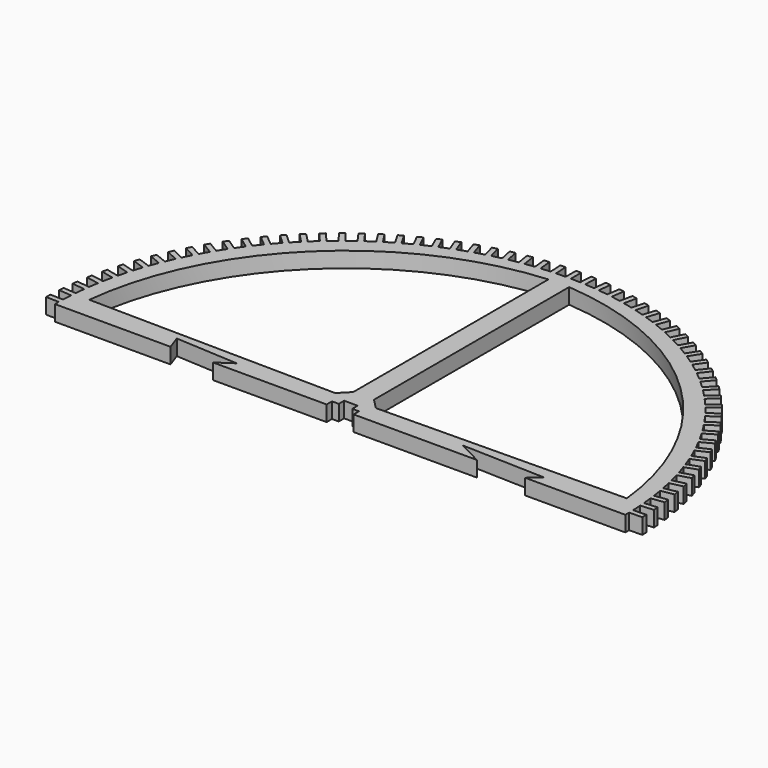
from build123d import *

# Parameters (mm, degrees)
F1_DEPTH = 3


with BuildPart() as f1:
    # F0 (on Top) → F1 (new body)
    with BuildSketch(Plane.XY):
        with BuildLine():
            Line((54.992368, 0), (54.992368, 0.916242))
            ThreePointArc((54.992368, 0.916242), (54.981766, 1.416135), (54.96662, 1.915911))
            ThreePointArc((54.96662, 1.915911), (54.927075, 2.831332), (54.872286, 3.745966))
            ThreePointArc((54.872286, 3.745966), (54.835964, 4.24465), (54.79511, 4.742984))
            ThreePointArc((54.79511, 4.742984), (54.708493, 5.655155), (54.606692, 6.565756))
            ThreePointArc((54.606692, 6.565756), (54.544747, 7.06191), (54.478294, 7.557479))
            ThreePointArc((54.478294, 7.557479), (54.344834, 8.463982), (54.196292, 9.368135))
            ThreePointArc((54.196292, 9.368135), (54.108887, 9.860442), (54.017011, 10.351933))
            ThreePointArc((54.017011, 10.351933), (53.837063, 11.250364), (53.642172, 12.145672))
            ThreePointArc((53.642172, 12.145672), (53.529541, 12.632826), (53.412485, 13.118936))
            ThreePointArc((53.412485, 13.118936), (53.186525, 14.006912), (52.945804, 14.891))
            ThreePointArc((52.945804, 14.891), (52.808243, 15.37171), (52.666318, 15.85115))
            ThreePointArc((52.666318, 15.85115), (52.394946, 16.726316), (52.109032, 17.59684))
            ThreePointArc((52.109032, 17.59684), (51.946908, 18.069831), (51.78049, 18.541329))
            ThreePointArc((51.78049, 18.541329), (51.464425, 19.401365), (51.134077, 20.256016))
            ThreePointArc((51.134077, 20.256016), (50.947818, 20.720034), (50.757349, 21.18234))
            ThreePointArc((50.757349, 21.18234), (50.39743, 22.024965), (50.023523, 22.861477))
            ThreePointArc((50.023523, 22.861477), (49.813624, 23.315291), (49.599609, 23.767179))
            ThreePointArc((49.599609, 23.767179), (49.19679, 24.590159), (48.780316, 25.406313))
            ThreePointArc((48.780316, 25.406313), (48.547334, 25.848721), (48.310339, 26.288992))
            ThreePointArc((48.310339, 26.288992), (47.865688, 27.090144), (47.407752, 27.883777))
            ThreePointArc((47.407752, 27.883777), (47.152305, 28.313604), (46.89296, 28.741091))
            ThreePointArc((46.89296, 28.741091), (46.407656, 29.518291), (45.909472, 30.287297))
            ThreePointArc((45.909472, 30.287297), (45.632236, 30.703405), (45.351228, 31.116974))
            ThreePointArc((45.351228, 31.116974), (44.826559, 31.86816), (44.289448, 32.610502))
            ThreePointArc((44.289448, 32.610502), (43.991158, 33.011785), (43.689233, 33.410341))
            ThreePointArc((43.689233, 33.410341), (43.126589, 34.133522), (42.551976, 34.847229))
            ThreePointArc((42.551976, 34.847229), (42.233425, 35.232625), (41.911383, 35.615109))
            ThreePointArc((41.911383, 35.615109), (41.312256, 36.308367), (40.701664, 36.991547))
            ThreePointArc((40.701664, 36.991547), (40.363695, 37.360034), (40.022391, 37.725432))
            ThreePointArc((40.022391, 37.725432), (39.38837, 38.386929), (38.743418, 39.037771))
            ThreePointArc((38.743418, 39.037771), (38.386929, 39.38837), (38.027266, 39.735715))
            ThreePointArc((38.027266, 39.735715), (37.360034, 40.363695), (36.682432, 40.980473))
            ThreePointArc((36.682432, 40.980473), (36.308367, 41.312256), (35.9313, 41.640625))
            ThreePointArc((35.9313, 41.640625), (35.232625, 42.233425), (34.524171, 42.814502))
            ThreePointArc((34.524171, 42.814502), (34.133522, 43.126589), (33.740051, 43.435112))
            ThreePointArc((33.740051, 43.435112), (33.011785, 43.991158), (32.274358, 44.534996))
            ThreePointArc((32.274358, 44.534996), (31.86816, 44.826559), (31.459329, 45.114417))
            ThreePointArc((31.459329, 45.114417), (30.703405, 45.632236), (29.938959, 46.13739))
            ThreePointArc((29.938959, 46.13739), (29.518291, 46.407656), (29.095183, 46.674086))
            ThreePointArc((29.095183, 46.674086), (28.313604, 47.152305), (27.524167, 47.617436))
            ThreePointArc((27.524167, 47.617436), (27.090144, 47.865688), (26.653882, 48.109984))
            ThreePointArc((26.653882, 48.109984), (25.848721, 48.547334), (25.036386, 48.97121))
            ThreePointArc((25.036386, 48.97121), (24.590159, 49.19679), (24.141899, 49.418303))
            ThreePointArc((24.141899, 49.418303), (23.315291, 49.813624), (22.482213, 50.19512))
            ThreePointArc((22.482213, 50.19512), (22.024965, 50.39743), (21.565896, 50.595574))
            ThreePointArc((21.565896, 50.595574), (20.720034, 50.947818), (19.868421, 51.285922))
            ThreePointArc((19.868421, 51.285922), (19.401365, 51.464425), (18.932705, 51.638674))
            ThreePointArc((18.932705, 51.638674), (18.069831, 51.946908), (17.201942, 52.240723))
            ThreePointArc((17.201942, 52.240723), (16.726316, 52.394946), (16.249307, 52.544838))
            ThreePointArc((16.249307, 52.544838), (15.37171, 52.808243), (14.489847, 53.056991))
            ThreePointArc((14.489847, 53.056991), (14.006912, 53.186525), (13.522819, 53.311663))
            ThreePointArc((13.522819, 53.311663), (12.632826, 53.529541), (11.739327, 53.732562))
            ThreePointArc((11.739327, 53.732562), (11.250364, 53.837063), (10.760471, 53.937114))
            ThreePointArc((10.760471, 53.937114), (9.860442, 54.108887), (8.957676, 54.265643))
            ThreePointArc((8.957676, 54.265643), (8.463982, 54.344834), (7.969588, 54.419534))
            ThreePointArc((7.969588, 54.419534), (7.06191, 54.544747), (6.152271, 54.654822))
            ThreePointArc((6.152271, 54.654822), (5.655155, 54.708493), (5.157571, 54.757643))
            ThreePointArc((5.157571, 54.757643), (4.24465, 54.835964), (3.330552, 54.899066))
            ThreePointArc((3.330552, 54.899066), (2.831332, 54.927075), (2.331877, 54.950545))
            ThreePointArc((2.331877, 54.950545), (1.416135, 54.981766), (0.5, 54.997727))
            ThreePointArc((0.5, 54.997727), (0.250003, 54.999432), (0, 55))
            ThreePointArc((0, 55), (-0.250003, 54.999432), (-0.5, 54.997727))
            ThreePointArc((-0.5, 54.997727), (-1.416135, 54.981766), (-2.331877, 54.950545))
            ThreePointArc((-2.331877, 54.950545), (-2.831332, 54.927075), (-3.330552, 54.899066))
            ThreePointArc((-3.330552, 54.899066), (-4.24465, 54.835964), (-5.157571, 54.757643))
            ThreePointArc((-5.157571, 54.757643), (-5.655155, 54.708493), (-6.152271, 54.654822))
            ThreePointArc((-6.152271, 54.654822), (-7.06191, 54.544747), (-7.969588, 54.419534))
            ThreePointArc((-7.969588, 54.419534), (-8.463982, 54.344834), (-8.957676, 54.265643))
            ThreePointArc((-8.957676, 54.265643), (-9.860442, 54.108887), (-10.760471, 53.937114))
            ThreePointArc((-10.760471, 53.937114), (-11.250364, 53.837063), (-11.739327, 53.732562))
            ThreePointArc((-11.739327, 53.732562), (-12.632826, 53.529541), (-13.522819, 53.311663))
            ThreePointArc((-13.522819, 53.311663), (-14.006912, 53.186525), (-14.489847, 53.056991))
            ThreePointArc((-14.489847, 53.056991), (-15.37171, 52.808243), (-16.249307, 52.544838))
            ThreePointArc((-16.249307, 52.544838), (-16.726316, 52.394946), (-17.201942, 52.240723))
            ThreePointArc((-17.201942, 52.240723), (-18.069831, 51.946908), (-18.932705, 51.638674))
            ThreePointArc((-18.932705, 51.638674), (-19.401365, 51.464425), (-19.868421, 51.285922))
            ThreePointArc((-19.868421, 51.285922), (-20.720034, 50.947818), (-21.565896, 50.595574))
            ThreePointArc((-21.565896, 50.595574), (-22.024965, 50.39743), (-22.482213, 50.19512))
            ThreePointArc((-22.482213, 50.19512), (-23.315291, 49.813624), (-24.141899, 49.418303))
            ThreePointArc((-24.141899, 49.418303), (-24.590159, 49.19679), (-25.036386, 48.97121))
            ThreePointArc((-25.036386, 48.97121), (-25.848721, 48.547334), (-26.653882, 48.109984))
            ThreePointArc((-26.653882, 48.109984), (-27.090144, 47.865688), (-27.524167, 47.617436))
            ThreePointArc((-27.524167, 47.617436), (-28.313604, 47.152305), (-29.095183, 46.674086))
            ThreePointArc((-29.095183, 46.674086), (-29.518291, 46.407656), (-29.938959, 46.13739))
            ThreePointArc((-29.938959, 46.13739), (-30.703405, 45.632236), (-31.459329, 45.114417))
            ThreePointArc((-31.459329, 45.114417), (-31.86816, 44.826559), (-32.274358, 44.534996))
            ThreePointArc((-32.274358, 44.534996), (-33.011785, 43.991158), (-33.740051, 43.435112))
            ThreePointArc((-33.740051, 43.435112), (-34.133522, 43.126589), (-34.524171, 42.814502))
            ThreePointArc((-34.524171, 42.814502), (-35.232625, 42.233425), (-35.9313, 41.640625))
            ThreePointArc((-35.9313, 41.640625), (-36.308367, 41.312256), (-36.682432, 40.980473))
            ThreePointArc((-36.682432, 40.980473), (-37.360034, 40.363695), (-38.027266, 39.735715))
            ThreePointArc((-38.027266, 39.735715), (-38.386929, 39.38837), (-38.743418, 39.037771))
            ThreePointArc((-38.743418, 39.037771), (-39.38837, 38.386929), (-40.022391, 37.725432))
            ThreePointArc((-40.022391, 37.725432), (-40.363695, 37.360034), (-40.701664, 36.991547))
            ThreePointArc((-40.701664, 36.991547), (-41.312256, 36.308367), (-41.911383, 35.615109))
            ThreePointArc((-41.911383, 35.615109), (-42.233425, 35.232625), (-42.551976, 34.847229))
            ThreePointArc((-42.551976, 34.847229), (-43.126589, 34.133522), (-43.689233, 33.410341))
            ThreePointArc((-43.689233, 33.410341), (-43.991158, 33.011785), (-44.289448, 32.610502))
            ThreePointArc((-44.289448, 32.610502), (-44.826559, 31.86816), (-45.351228, 31.116974))
            ThreePointArc((-45.351228, 31.116974), (-45.632236, 30.703405), (-45.909472, 30.287297))
            ThreePointArc((-45.909472, 30.287297), (-46.407656, 29.518291), (-46.89296, 28.741091))
            ThreePointArc((-46.89296, 28.741091), (-47.152305, 28.313604), (-47.407752, 27.883777))
            ThreePointArc((-47.407752, 27.883777), (-47.865688, 27.090144), (-48.310339, 26.288992))
            ThreePointArc((-48.310339, 26.288992), (-48.547334, 25.848721), (-48.780316, 25.406313))
            ThreePointArc((-48.780316, 25.406313), (-49.19679, 24.590159), (-49.599609, 23.767179))
            ThreePointArc((-49.599609, 23.767179), (-49.813624, 23.315291), (-50.023523, 22.861477))
            ThreePointArc((-50.023523, 22.861477), (-50.39743, 22.024965), (-50.757349, 21.18234))
            ThreePointArc((-50.757349, 21.18234), (-50.947818, 20.720034), (-51.134077, 20.256016))
            ThreePointArc((-51.134077, 20.256016), (-51.464425, 19.401365), (-51.78049, 18.541329))
            ThreePointArc((-51.78049, 18.541329), (-51.946908, 18.069831), (-52.109032, 17.59684))
            ThreePointArc((-52.109032, 17.59684), (-52.394946, 16.726316), (-52.666318, 15.85115))
            ThreePointArc((-52.666318, 15.85115), (-52.808243, 15.37171), (-52.945804, 14.891))
            ThreePointArc((-52.945804, 14.891), (-53.186525, 14.006912), (-53.412485, 13.118936))
            ThreePointArc((-53.412485, 13.118936), (-53.529541, 12.632826), (-53.642172, 12.145672))
            ThreePointArc((-53.642172, 12.145672), (-53.837063, 11.250364), (-54.017011, 10.351933))
            ThreePointArc((-54.017011, 10.351933), (-54.108887, 9.860442), (-54.196292, 9.368135))
            ThreePointArc((-54.196292, 9.368135), (-54.344834, 8.463982), (-54.478294, 7.557479))
            ThreePointArc((-54.478294, 7.557479), (-54.544747, 7.06191), (-54.606692, 6.565756))
            ThreePointArc((-54.606692, 6.565756), (-54.708493, 5.655155), (-54.79511, 4.742984))
            ThreePointArc((-54.79511, 4.742984), (-54.835964, 4.24465), (-54.872286, 3.745966))
            ThreePointArc((-54.872286, 3.745966), (-54.927075, 2.831332), (-54.96662, 1.915911))
            ThreePointArc((-54.96662, 1.915911), (-54.981766, 1.416135), (-54.992368, 0.916242))
            Line((-54.992368, 0.916242), (-54.992368, 0))
            Line((-54.992368, 0), (-51.959351, 0))
            Line((-51.959351, 0), (-32.704696, 0))
            Line((-32.704696, 0), (-33.671062, 2.708852))
            Line((-33.671062, 2.708852), (-21.556878, 2.011633))
            Line((-21.556878, 2.011633), (-24.52006, 0))
            Line((-24.52006, 0), (-2.6, 0))
            Line((-2.6, 0), (-2.6, 1.3))
            Line((-2.6, 1.3), (-1.3, 1.3))
            Line((-1.3, 1.3), (-1.3, 2.6))
            Line((-1.3, 2.6), (0, 2.6))
            Line((0, 2.6), (1.3, 2.6))
            Line((1.3, 2.6), (1.3, 1.3))
            Line((1.3, 1.3), (2.6, 1.3))
            Line((2.6, 1.3), (2.6, 0))
            Line((2.6, 0), (26.367193, 0))
            Line((26.367193, 0), (21.753281, 2.377975))
            Line((21.753281, 2.377975), (37.876233, 1.864971))
            Line((37.876233, 1.864971), (35.677649, 0))
            Line((35.677649, 0), (50.179556, 0))
            Line((50.179556, 0), (54.992368, 0))
        make_face()
        with BuildLine():
            Line((-2, 5.659299), (-3.923441, 3.704175))
            Line((-3.923441, 3.704175), (-51.831243, 4.329649))
            ThreePointArc((-51.831243, 4.329649), (-35.634209, 37.500109), (-2, 52.710741))
            Line((-2, 52.710741), (-2, 50.710741))
            Line((-2, 50.710741), (-2, 5.659299))
        make_face(mode=Mode.SUBTRACT)
        with BuildLine():
            Line((2, 5.659299), (2, 50.710741))
            Line((2, 50.710741), (2, 52.710741))
            ThreePointArc((2, 52.710741), (35.634209, 37.500109), (51.831243, 4.329649))
            Line((51.831243, 4.329649), (3.923441, 3.704175))
            Line((3.923441, 3.704175), (2, 5.659299))
        make_face(mode=Mode.SUBTRACT)
        with BuildLine():
            ThreePointArc((54.96662, 1.915911), (54.981766, 1.416135), (54.992368, 0.916242))
            Line((54.992368, 0.916242), (57.493811, 0.980671))
            Line((57.493811, 0.980671), (57.480937, 1.480505))
            Line((57.480937, 1.480505), (57.468063, 1.980339))
            Line((57.468063, 1.980339), (54.96662, 1.915911))
        make_face()
        with BuildLine():
            ThreePointArc((54.79511, 4.742984), (54.835964, 4.24465), (54.872286, 3.745966))
            Line((54.872286, 3.745966), (57.367096, 3.93908))
            Line((57.367096, 3.93908), (57.328508, 4.437589))
            Line((57.328508, 4.437589), (57.28992, 4.936098))
            Line((57.28992, 4.936098), (54.79511, 4.742984))
        make_face()
        with BuildLine():
            ThreePointArc((54.478294, 7.557479), (54.544747, 7.06191), (54.606692, 6.565756))
            Line((54.606692, 6.565756), (57.088253, 6.887044))
            Line((57.088253, 6.887044), (57.024054, 7.382905))
            Line((57.024054, 7.382905), (56.959855, 7.878767))
            Line((56.959855, 7.878767), (54.478294, 7.557479))
        make_face()
        with BuildLine():
            ThreePointArc((54.017011, 10.351933), (54.108887, 9.860442), (54.196292, 9.368135))
            Line((54.196292, 9.368135), (56.658023, 9.816745))
            Line((56.658023, 9.816745), (56.568382, 10.308644))
            Line((56.568382, 10.308644), (56.478742, 10.800543))
            Line((56.478742, 10.800543), (54.017011, 10.351933))
        make_face()
        with BuildLine():
            ThreePointArc((53.412485, 13.118936), (53.529541, 12.632826), (53.642172, 12.145672))
            Line((53.642172, 12.145672), (56.077545, 12.720413))
            Line((56.077545, 12.720413), (55.962701, 13.207045))
            Line((55.962701, 13.207045), (55.847858, 13.693677))
            Line((55.847858, 13.693677), (53.412485, 13.118936))
        make_face()
        with BuildLine():
            ThreePointArc((52.666318, 15.85115), (52.808243, 15.37171), (52.945804, 14.891))
            Line((52.945804, 14.891), (55.348361, 15.590349))
            Line((55.348361, 15.590349), (55.208618, 16.070424))
            Line((55.208618, 16.070424), (55.068875, 16.550499))
            Line((55.068875, 16.550499), (52.666318, 15.85115))
        make_face()
        with BuildLine():
            ThreePointArc((51.78049, 18.541329), (51.946908, 18.069831), (52.109032, 17.59684))
            Line((52.109032, 17.59684), (54.472402, 18.418942))
            Line((54.472402, 18.418942), (54.308131, 18.891187))
            Line((54.308131, 18.891187), (54.143859, 19.363432))
            Line((54.143859, 19.363432), (51.78049, 18.541329))
        make_face()
        with BuildLine():
            ThreePointArc((50.757349, 21.18234), (50.947818, 20.720034), (51.134077, 20.256016))
            Line((51.134077, 20.256016), (53.451992, 21.198692))
            Line((53.451992, 21.198692), (53.263628, 21.661854))
            Line((53.263628, 21.661854), (53.075264, 22.125016))
            Line((53.075264, 22.125016), (50.757349, 21.18234))
        make_face()
        with BuildLine():
            ThreePointArc((49.599609, 23.767179), (49.813624, 23.315291), (50.023523, 22.861477))
            Line((50.023523, 22.861477), (52.289837, 23.922226))
            Line((52.289837, 23.922226), (52.07788, 24.375077))
            Line((52.07788, 24.375077), (51.865923, 24.827929))
            Line((51.865923, 24.827929), (49.599609, 23.767179))
        make_face()
        with BuildLine():
            ThreePointArc((48.310339, 26.288992), (48.547334, 25.848721), (48.780316, 25.406313))
            Line((48.780316, 25.406313), (50.989019, 26.582323))
            Line((50.989019, 26.582323), (50.754031, 27.023663))
            Line((50.754031, 27.023663), (50.519043, 27.465002))
            Line((50.519043, 27.465002), (48.310339, 26.288992))
        make_face()
        with BuildLine():
            ThreePointArc((46.89296, 28.741091), (47.152305, 28.313604), (47.407752, 27.883777))
            Line((47.407752, 27.883777), (49.552988, 29.171929))
            Line((49.552988, 29.171929), (49.295591, 29.600586))
            Line((49.295591, 29.600586), (49.038195, 30.029243))
            Line((49.038195, 30.029243), (46.89296, 28.741091))
        make_face()
        with BuildLine():
            ThreePointArc((45.351228, 31.116974), (45.632236, 30.703405), (45.909472, 30.287297))
            Line((45.909472, 30.287297), (47.98555, 31.684176))
            Line((47.98555, 31.684176), (47.706428, 32.099014))
            Line((47.706428, 32.099014), (47.427306, 32.513853))
            Line((47.427306, 32.513853), (45.351228, 31.116974))
        make_face()
        with BuildLine():
            Line((-57.493811, 0.980671), (-54.992368, 0.916242))
            ThreePointArc((-54.992368, 0.916242), (-54.981766, 1.416135), (-54.96662, 1.915911))
            Line((-54.96662, 1.915911), (-57.468063, 1.980339))
            Line((-57.468063, 1.980339), (-57.480937, 1.480505))
            Line((-57.480937, 1.480505), (-57.493811, 0.980671))
        make_face()
        with BuildLine():
            ThreePointArc((43.689233, 33.410341), (43.991158, 33.011785), (44.289448, 32.610502))
            Line((44.289448, 32.610502), (46.290864, 34.112402))
            Line((46.290864, 34.112402), (45.990757, 34.512321))
            Line((45.990757, 34.512321), (45.690649, 34.912241))
            Line((45.690649, 34.912241), (43.689233, 33.410341))
        make_face()
        with BuildLine():
            Line((-57.367096, 3.93908), (-54.872286, 3.745966))
            ThreePointArc((-54.872286, 3.745966), (-54.835964, 4.24465), (-54.79511, 4.742984))
            Line((-54.79511, 4.742984), (-57.28992, 4.936098))
            Line((-57.28992, 4.936098), (-57.328508, 4.437589))
            Line((-57.328508, 4.437589), (-57.367096, 3.93908))
        make_face()
        with BuildLine():
            ThreePointArc((41.911383, 35.615109), (42.233425, 35.232625), (42.551976, 34.847229))
            Line((42.551976, 34.847229), (44.473422, 36.450168))
            Line((44.473422, 36.450168), (44.153126, 36.834108))
            Line((44.153126, 36.834108), (43.832829, 37.218048))
            Line((43.832829, 37.218048), (41.911383, 35.615109))
        make_face()
        with BuildLine():
            Line((-57.088253, 6.887044), (-54.606692, 6.565756))
            ThreePointArc((-54.606692, 6.565756), (-54.544747, 7.06191), (-54.478294, 7.557479))
            Line((-54.478294, 7.557479), (-56.959855, 7.878767))
            Line((-56.959855, 7.878767), (-57.024054, 7.382905))
            Line((-57.024054, 7.382905), (-57.088253, 6.887044))
        make_face()
        with BuildLine():
            ThreePointArc((40.022391, 37.725432), (40.363695, 37.360034), (40.701664, 36.991547))
            Line((40.701664, 36.991547), (42.538045, 38.691274))
            Line((42.538045, 38.691274), (42.198409, 39.058217))
            Line((42.198409, 39.058217), (41.858772, 39.42516))
            Line((41.858772, 39.42516), (40.022391, 37.725432))
        make_face()
        with BuildLine():
            Line((-56.658023, 9.816745), (-54.196292, 9.368135))
            ThreePointArc((-54.196292, 9.368135), (-54.108887, 9.860442), (-54.017011, 10.351933))
            Line((-54.017011, 10.351933), (-56.478742, 10.800543))
            Line((-56.478742, 10.800543), (-56.568382, 10.308644))
            Line((-56.568382, 10.308644), (-56.658023, 9.816745))
        make_face()
        with BuildLine():
            ThreePointArc((38.027266, 39.735715), (38.386929, 39.38837), (38.743418, 39.037771))
            Line((38.743418, 39.037771), (40.489865, 40.829779))
            Line((40.489865, 40.829779), (40.131789, 41.178751))
            Line((40.131789, 41.178751), (39.773713, 41.527723))
            Line((39.773713, 41.527723), (38.027266, 39.735715))
        make_face()
        with BuildLine():
            Line((-56.077545, 12.720413), (-53.642172, 12.145672))
            ThreePointArc((-53.642172, 12.145672), (-53.529541, 12.632826), (-53.412485, 13.118936))
            Line((-53.412485, 13.118936), (-55.847858, 13.693677))
            Line((-55.847858, 13.693677), (-55.962701, 13.207045))
            Line((-55.962701, 13.207045), (-56.077545, 12.720413))
        make_face()
        with BuildLine():
            ThreePointArc((35.9313, 41.640625), (36.308367, 41.312256), (36.682432, 40.980473))
            Line((36.682432, 40.980473), (38.334313, 42.86001))
            Line((38.334313, 42.86001), (37.958747, 43.190086))
            Line((37.958747, 43.190086), (37.583181, 43.520162))
            Line((37.583181, 43.520162), (35.9313, 41.640625))
        make_face()
        with BuildLine():
            Line((-55.348361, 15.590349), (-52.945804, 14.891))
            ThreePointArc((-52.945804, 14.891), (-52.808243, 15.37171), (-52.666318, 15.85115))
            Line((-52.666318, 15.85115), (-55.068875, 16.550499))
            Line((-55.068875, 16.550499), (-55.208618, 16.070424))
            Line((-55.208618, 16.070424), (-55.348361, 15.590349))
        make_face()
        with BuildLine():
            ThreePointArc((33.740051, 43.435112), (34.133522, 43.126589), (34.524171, 42.814502))
            Line((34.524171, 42.814502), (36.077105, 44.776584))
            Line((36.077105, 44.776584), (35.685045, 45.086889))
            Line((35.685045, 45.086889), (35.292985, 45.397194))
            Line((35.292985, 45.397194), (33.740051, 43.435112))
        make_face()
        with BuildLine():
            Line((-54.472402, 18.418942), (-52.109032, 17.59684))
            ThreePointArc((-52.109032, 17.59684), (-51.946908, 18.069831), (-51.78049, 18.541329))
            Line((-51.78049, 18.541329), (-54.143859, 19.363432))
            Line((-54.143859, 19.363432), (-54.308131, 18.891187))
            Line((-54.308131, 18.891187), (-54.472402, 18.418942))
        make_face()
        with BuildLine():
            ThreePointArc((31.459329, 45.114417), (31.86816, 44.826559), (32.274358, 44.534996))
            Line((32.274358, 44.534996), (33.724227, 46.574419))
            Line((33.724227, 46.574419), (33.316713, 46.864129))
            Line((33.316713, 46.864129), (32.909199, 47.15384))
            Line((32.909199, 47.15384), (31.459329, 45.114417))
        make_face()
        with BuildLine():
            Line((-53.451992, 21.198692), (-51.134077, 20.256016))
            ThreePointArc((-51.134077, 20.256016), (-50.947818, 20.720034), (-50.757349, 21.18234))
            Line((-50.757349, 21.18234), (-53.075264, 22.125016))
            Line((-53.075264, 22.125016), (-53.263628, 21.661854))
            Line((-53.263628, 21.661854), (-53.451992, 21.198692))
        make_face()
        with BuildLine():
            ThreePointArc((29.095183, 46.674086), (29.518291, 46.407656), (29.938959, 46.13739))
            Line((29.938959, 46.13739), (31.281919, 48.248747))
            Line((31.281919, 48.248747), (30.860031, 48.517095))
            Line((30.860031, 48.517095), (30.438143, 48.785443))
            Line((30.438143, 48.785443), (29.095183, 46.674086))
        make_face()
        with BuildLine():
            Line((-52.289837, 23.922226), (-50.023523, 22.861477))
            ThreePointArc((-50.023523, 22.861477), (-49.813624, 23.315291), (-49.599609, 23.767179))
            Line((-49.599609, 23.767179), (-51.865923, 24.827929))
            Line((-51.865923, 24.827929), (-52.07788, 24.375077))
            Line((-52.07788, 24.375077), (-52.289837, 23.922226))
        make_face()
        with BuildLine():
            ThreePointArc((26.653882, 48.109984), (27.090144, 47.865688), (27.524167, 47.617436))
            Line((27.524167, 47.617436), (28.756657, 49.795127))
            Line((28.756657, 49.795127), (28.321514, 50.041401))
            Line((28.321514, 50.041401), (27.886371, 50.287675))
            Line((27.886371, 50.287675), (26.653882, 48.109984))
        make_face()
        with BuildLine():
            Line((-50.989019, 26.582323), (-48.780316, 25.406313))
            ThreePointArc((-48.780316, 25.406313), (-48.547334, 25.848721), (-48.310339, 26.288992))
            Line((-48.310339, 26.288992), (-50.519043, 27.465002))
            Line((-50.519043, 27.465002), (-50.754031, 27.023663))
            Line((-50.754031, 27.023663), (-50.989019, 26.582323))
        make_face()
        with BuildLine():
            ThreePointArc((24.141899, 49.418303), (24.590159, 49.19679), (25.036386, 48.97121))
            Line((25.036386, 48.97121), (26.155137, 51.20946))
            Line((26.155137, 51.20946), (25.707893, 51.433007))
            Line((25.707893, 51.433007), (25.26065, 51.656554))
            Line((25.26065, 51.656554), (24.141899, 49.418303))
        make_face()
        with BuildLine():
            Line((-49.552988, 29.171929), (-47.407752, 27.883777))
            ThreePointArc((-47.407752, 27.883777), (-47.152305, 28.313604), (-46.89296, 28.741091))
            Line((-46.89296, 28.741091), (-49.038195, 30.029243))
            Line((-49.038195, 30.029243), (-49.295591, 29.600586))
            Line((-49.295591, 29.600586), (-49.552988, 29.171929))
        make_face()
        with BuildLine():
            ThreePointArc((21.565896, 50.595574), (22.024965, 50.39743), (22.482213, 50.19512))
            Line((22.482213, 50.19512), (23.484258, 52.487995))
            Line((23.484258, 52.487995), (23.0261, 52.688222))
            Line((23.0261, 52.688222), (22.567941, 52.888449))
            Line((22.567941, 52.888449), (21.565896, 50.595574))
        make_face()
        with BuildLine():
            Line((-47.98555, 31.684176), (-45.909472, 30.287297))
            ThreePointArc((-45.909472, 30.287297), (-45.632236, 30.703405), (-45.351228, 31.116974))
            Line((-45.351228, 31.116974), (-47.427306, 32.513853))
            Line((-47.427306, 32.513853), (-47.706428, 32.099014))
            Line((-47.706428, 32.099014), (-47.98555, 31.684176))
        make_face()
        with BuildLine():
            ThreePointArc((18.932705, 51.638674), (19.401365, 51.464425), (19.868421, 51.285922))
            Line((19.868421, 51.285922), (20.751103, 53.627341))
            Line((20.751103, 53.627341), (20.283245, 53.803717))
            Line((20.283245, 53.803717), (19.815387, 53.980093))
            Line((19.815387, 53.980093), (18.932705, 51.638674))
        make_face()
        with BuildLine():
            Line((-46.290864, 34.112402), (-44.289448, 32.610502))
            ThreePointArc((-44.289448, 32.610502), (-43.991158, 33.011785), (-43.689233, 33.410341))
            Line((-43.689233, 33.410341), (-45.690649, 34.912241))
            Line((-45.690649, 34.912241), (-45.990757, 34.512321))
            Line((-45.990757, 34.512321), (-46.290864, 34.112402))
        make_face()
        with BuildLine():
            ThreePointArc((16.249307, 52.544838), (16.726316, 52.394946), (17.201942, 52.240723))
            Line((17.201942, 52.240723), (17.962921, 54.624477))
            Line((17.962921, 54.624477), (17.486603, 54.776534))
            Line((17.486603, 54.776534), (17.010285, 54.928592))
            Line((17.010285, 54.928592), (16.249307, 52.544838))
        make_face()
        with BuildLine():
            Line((-44.473422, 36.450168), (-42.551976, 34.847229))
            ThreePointArc((-42.551976, 34.847229), (-42.233425, 35.232625), (-41.911383, 35.615109))
            Line((-41.911383, 35.615109), (-43.832829, 37.218048))
            Line((-43.832829, 37.218048), (-44.153126, 36.834108))
            Line((-44.153126, 36.834108), (-44.473422, 36.450168))
        make_face()
        with BuildLine():
            ThreePointArc((13.522819, 53.311663), (14.006912, 53.186525), (14.489847, 53.056991))
            Line((14.489847, 53.056991), (15.127103, 55.476759))
            Line((15.127103, 55.476759), (14.643589, 55.604094))
            Line((14.643589, 55.604094), (14.160076, 55.73143))
            Line((14.160076, 55.73143), (13.522819, 53.311663))
        make_face()
        with BuildLine():
            Line((-42.538045, 38.691274), (-40.701664, 36.991547))
            ThreePointArc((-40.701664, 36.991547), (-40.363695, 37.360034), (-40.022391, 37.725432))
            Line((-40.022391, 37.725432), (-41.858772, 39.42516))
            Line((-41.858772, 39.42516), (-42.198409, 39.058217))
            Line((-42.198409, 39.058217), (-42.538045, 38.691274))
        make_face()
        with BuildLine():
            ThreePointArc((10.760471, 53.937114), (11.250364, 53.837063), (11.739327, 53.732562))
            Line((11.739327, 53.732562), (12.251172, 56.181926))
            Line((12.251172, 56.181926), (11.761744, 56.284202))
            Line((11.761744, 56.284202), (11.272316, 56.386478))
            Line((11.272316, 56.386478), (10.760471, 53.937114))
        make_face()
        with BuildLine():
            Line((-40.489865, 40.829779), (-38.743418, 39.037771))
            ThreePointArc((-38.743418, 39.037771), (-38.386929, 39.38837), (-38.027266, 39.735715))
            Line((-38.027266, 39.735715), (-39.773713, 41.527723))
            Line((-39.773713, 41.527723), (-40.131789, 41.178751))
            Line((-40.131789, 41.178751), (-40.489865, 40.829779))
        make_face()
        with BuildLine():
            ThreePointArc((7.969588, 54.419534), (8.463982, 54.344834), (8.957676, 54.265643))
            Line((8.957676, 54.265643), (9.342752, 56.738109))
            Line((9.342752, 56.738109), (8.848708, 56.815054))
            Line((8.848708, 56.815054), (8.354664, 56.891999))
            Line((8.354664, 56.891999), (7.969588, 54.419534))
        make_face()
        with BuildLine():
            Line((-38.334313, 42.86001), (-36.682432, 40.980473))
            ThreePointArc((-36.682432, 40.980473), (-36.308367, 41.312256), (-35.9313, 41.640625))
            Line((-35.9313, 41.640625), (-37.583181, 43.520162))
            Line((-37.583181, 43.520162), (-37.958747, 43.190086))
            Line((-37.958747, 43.190086), (-38.334313, 42.86001))
        make_face()
        with BuildLine():
            ThreePointArc((5.157571, 54.757643), (5.655155, 54.708493), (6.152271, 54.654822))
            Line((6.152271, 54.654822), (6.409557, 57.143832))
            Line((6.409557, 57.143832), (5.912207, 57.195243))
            Line((5.912207, 57.195243), (5.414857, 57.246653))
            Line((5.414857, 57.246653), (5.157571, 54.757643))
        make_face()
        with BuildLine():
            Line((-36.077105, 44.776584), (-34.524171, 42.814502))
            ThreePointArc((-34.524171, 42.814502), (-34.133522, 43.126589), (-33.740051, 43.435112))
            Line((-33.740051, 43.435112), (-35.292985, 45.397194))
            Line((-35.292985, 45.397194), (-35.685045, 45.086889))
            Line((-35.685045, 45.086889), (-36.077105, 44.776584))
        make_face()
        with BuildLine():
            ThreePointArc((2.331877, 54.950545), (2.831332, 54.927075), (3.330552, 54.899066))
            Line((3.330552, 54.899066), (3.459365, 57.398021))
            Line((3.459365, 57.398021), (2.960028, 57.42376))
            Line((2.960028, 57.42376), (2.460691, 57.4495))
            Line((2.460691, 57.4495), (2.331877, 54.950545))
        make_face()
        with BuildLine():
            Line((-33.724227, 46.574419), (-32.274358, 44.534996))
            ThreePointArc((-32.274358, 44.534996), (-31.86816, 44.826559), (-31.459329, 45.114417))
            Line((-31.459329, 45.114417), (-32.909199, 47.15384))
            Line((-32.909199, 47.15384), (-33.316713, 46.864129))
            Line((-33.316713, 46.864129), (-33.724227, 46.574419))
        make_face()
        with BuildLine():
            ThreePointArc((0, 55), (0.250003, 54.999432), (0.5, 54.997727))
            Line((0.5, 54.997727), (0.5, 57.5))
            Line((0.5, 57.5), (0, 57.5))
            Line((0, 57.5), (0, 55))
        make_face()
        with BuildLine():
            Line((-31.281919, 48.248747), (-29.938959, 46.13739))
            ThreePointArc((-29.938959, 46.13739), (-29.518291, 46.407656), (-29.095183, 46.674086))
            Line((-29.095183, 46.674086), (-30.438143, 48.785443))
            Line((-30.438143, 48.785443), (-30.860031, 48.517095))
            Line((-30.860031, 48.517095), (-31.281919, 48.248747))
        make_face()
        with BuildLine():
            ThreePointArc((-0.5, 54.997727), (-0.250003, 54.999432), (0, 55))
            Line((0, 55), (0, 57.5))
            Line((0, 57.5), (-0.5, 57.5))
            Line((-0.5, 57.5), (-0.5, 54.997727))
        make_face()
        with BuildLine():
            Line((-28.756657, 49.795127), (-27.524167, 47.617436))
            ThreePointArc((-27.524167, 47.617436), (-27.090144, 47.865688), (-26.653882, 48.109984))
            Line((-26.653882, 48.109984), (-27.886371, 50.287675))
            Line((-27.886371, 50.287675), (-28.321514, 50.041401))
            Line((-28.321514, 50.041401), (-28.756657, 49.795127))
        make_face()
        with BuildLine():
            ThreePointArc((-3.330552, 54.899066), (-2.831332, 54.927075), (-2.331877, 54.950545))
            Line((-2.331877, 54.950545), (-2.460691, 57.4495))
            Line((-2.460691, 57.4495), (-2.960028, 57.42376))
            Line((-2.960028, 57.42376), (-3.459365, 57.398021))
            Line((-3.459365, 57.398021), (-3.330552, 54.899066))
        make_face()
        with BuildLine():
            Line((-26.155137, 51.20946), (-25.036386, 48.97121))
            ThreePointArc((-25.036386, 48.97121), (-24.590159, 49.19679), (-24.141899, 49.418303))
            Line((-24.141899, 49.418303), (-25.26065, 51.656554))
            Line((-25.26065, 51.656554), (-25.707893, 51.433007))
            Line((-25.707893, 51.433007), (-26.155137, 51.20946))
        make_face()
        with BuildLine():
            ThreePointArc((-6.152271, 54.654822), (-5.655155, 54.708493), (-5.157571, 54.757643))
            Line((-5.157571, 54.757643), (-5.414857, 57.246653))
            Line((-5.414857, 57.246653), (-5.912207, 57.195243))
            Line((-5.912207, 57.195243), (-6.409557, 57.143832))
            Line((-6.409557, 57.143832), (-6.152271, 54.654822))
        make_face()
        with BuildLine():
            Line((-23.484258, 52.487995), (-22.482213, 50.19512))
            ThreePointArc((-22.482213, 50.19512), (-22.024965, 50.39743), (-21.565896, 50.595574))
            Line((-21.565896, 50.595574), (-22.567941, 52.888449))
            Line((-22.567941, 52.888449), (-23.0261, 52.688222))
            Line((-23.0261, 52.688222), (-23.484258, 52.487995))
        make_face()
        with BuildLine():
            ThreePointArc((-8.957676, 54.265643), (-8.463982, 54.344834), (-7.969588, 54.419534))
            Line((-7.969588, 54.419534), (-8.354664, 56.891999))
            Line((-8.354664, 56.891999), (-8.848708, 56.815054))
            Line((-8.848708, 56.815054), (-9.342752, 56.738109))
            Line((-9.342752, 56.738109), (-8.957676, 54.265643))
        make_face()
        with BuildLine():
            Line((-20.751103, 53.627341), (-19.868421, 51.285922))
            ThreePointArc((-19.868421, 51.285922), (-19.401365, 51.464425), (-18.932705, 51.638674))
            Line((-18.932705, 51.638674), (-19.815387, 53.980093))
            Line((-19.815387, 53.980093), (-20.283245, 53.803717))
            Line((-20.283245, 53.803717), (-20.751103, 53.627341))
        make_face()
        with BuildLine():
            ThreePointArc((-11.739327, 53.732562), (-11.250364, 53.837063), (-10.760471, 53.937114))
            Line((-10.760471, 53.937114), (-11.272316, 56.386478))
            Line((-11.272316, 56.386478), (-11.761744, 56.284202))
            Line((-11.761744, 56.284202), (-12.251172, 56.181926))
            Line((-12.251172, 56.181926), (-11.739327, 53.732562))
        make_face()
        with BuildLine():
            Line((-17.962921, 54.624477), (-17.201942, 52.240723))
            ThreePointArc((-17.201942, 52.240723), (-16.726316, 52.394946), (-16.249307, 52.544838))
            Line((-16.249307, 52.544838), (-17.010285, 54.928592))
            Line((-17.010285, 54.928592), (-17.486603, 54.776534))
            Line((-17.486603, 54.776534), (-17.962921, 54.624477))
        make_face()
        with BuildLine():
            ThreePointArc((-14.489847, 53.056991), (-14.006912, 53.186525), (-13.522819, 53.311663))
            Line((-13.522819, 53.311663), (-14.160076, 55.73143))
            Line((-14.160076, 55.73143), (-14.643589, 55.604094))
            Line((-14.643589, 55.604094), (-15.127103, 55.476759))
            Line((-15.127103, 55.476759), (-14.489847, 53.056991))
        make_face()
    extrude(amount=F1_DEPTH)


solid = f1.part
